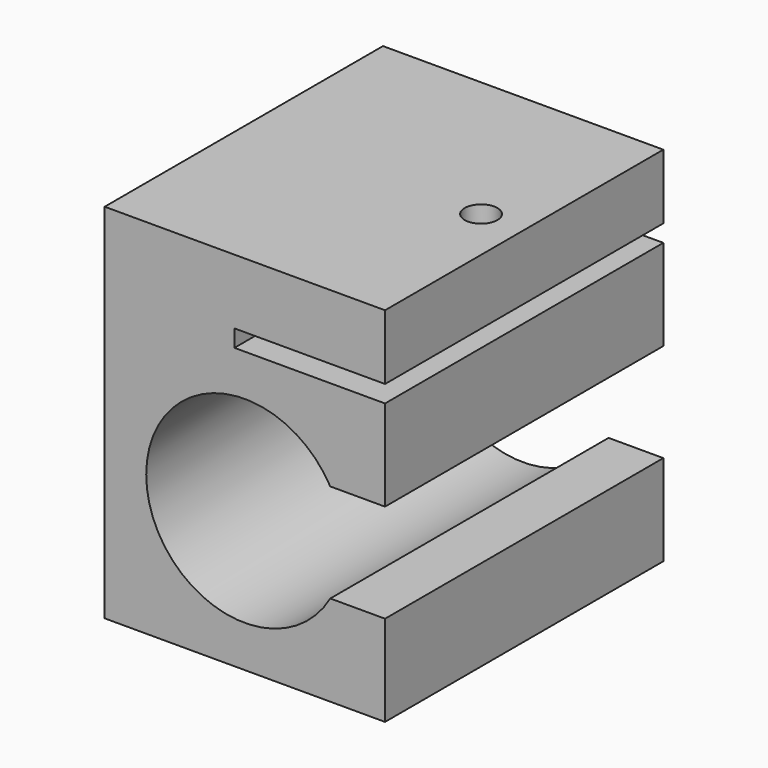
from build123d import *

# Parameters (mm, degrees)
F0_W     = 1371.6
F0_H     = 1772.92
F2_DEPTH = 1701.8
F3_W     = 736.6
F3_H     = 83.82
F4_DEPTH = 1701.8
F6_DEPTH = 1701.8
F7_R     = 80.01
F8_DEPTH = 317.5


with BuildPart() as f2:
    # F0 (on Front) → F2 (new body)
    with BuildSketch(Plane.XZ):
        with Locations((641.200314182, 852.594570539)):
            Rectangle(F0_W, F0_H)
    extrude(amount=F2_DEPTH)

    # F3 (on face) → F4 (cut)
    with BuildSketch(Plane.XZ.offset(1701.8)):
        with Locations((958.700314182, 1379.644570539)):
            Rectangle(F3_W, F3_H)
    extrude(amount=-F4_DEPTH, mode=Mode.SUBTRACT)

    # F5 (on face) → F6 (cut)
    with BuildSketch(Plane.XZ.offset(1701.8)):
        with BuildLine():
            ThreePointArc((1059.1441740484, 410.634570539), (1107.3561179491, 527.0284993725), (1123.800314182, 651.934570539))
            ThreePointArc((1123.800314182, 651.934570539), (1107.3561179491, 776.8406417055), (1059.1441740484, 893.234570539))
            Line((1059.1441740484, 893.234570539), (692.000314182, 893.234570539))
            Line((692.000314182, 893.234570539), (692.000314182, 410.634570539))
            Line((692.000314182, 410.634570539), (1059.1441740484, 410.634570539))
        make_face()
        with BuildLine():
            ThreePointArc((1059.1441740484, 893.234570539), (1107.3561179491, 776.8406417055), (1123.800314182, 651.934570539))
            ThreePointArc((1123.800314182, 651.934570539), (1107.3561179491, 527.0284993725), (1059.1441740484, 410.634570539))
            Line((1059.1441740484, 410.634570539), (1327.000314182, 410.634570539))
            Line((1327.000314182, 410.634570539), (1327.000314182, 893.234570539))
            Line((1327.000314182, 893.234570539), (1059.1441740484, 893.234570539))
        make_face()
        with BuildLine():
            Line((692.000314182, 893.234570539), (1059.1441740484, 893.234570539))
            ThreePointArc((1059.1441740484, 893.234570539), (158.600314182, 651.934570539), (1059.1441740484, 410.634570539))
            Line((1059.1441740484, 410.634570539), (692.000314182, 410.634570539))
            Line((692.000314182, 410.634570539), (692.000314182, 893.234570539))
        make_face()
    extrude(amount=-F6_DEPTH, mode=Mode.SUBTRACT)

    # F7 (on face) → F8 (cut)
    with BuildSketch(Plane.XY.offset(1739.054570539)):
        with Locations((1116.180314182, -850.9)):
            Circle(F7_R)
    extrude(amount=-F8_DEPTH, mode=Mode.SUBTRACT)


solid = f2.part
